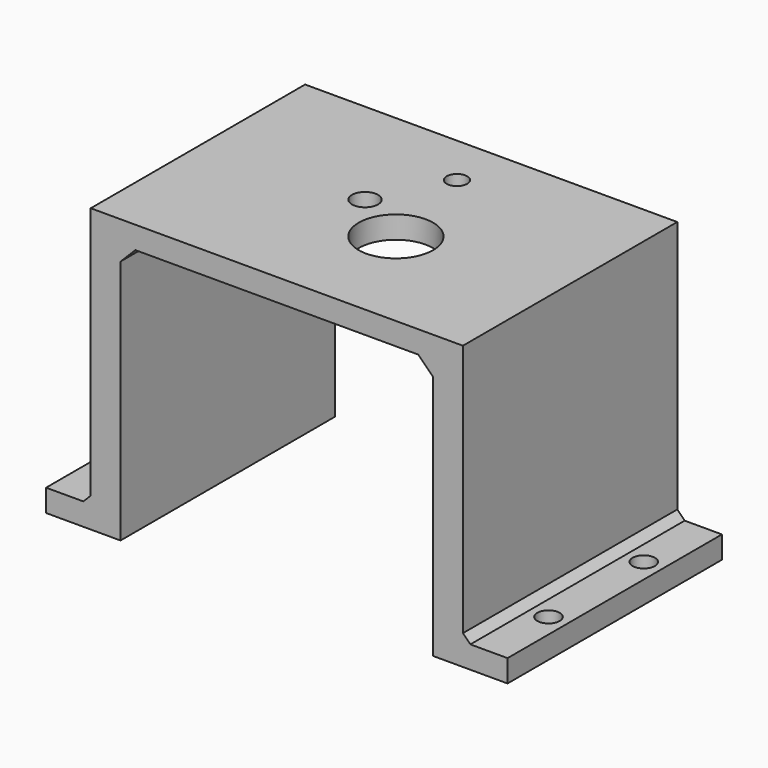
from build123d import *

# Parameters (mm, degrees)
CYLINDER049_R             = 1.38
CYLINDER049_DEPTH         = 40
CYLINDER030_R             = 1.75
CYLINDER030_DEPTH         = 10
CYLINDER029_R             = 5
CYLINDER029_DEPTH         = 10
CYLINDER024_R             = 8.5
CYLINDER024_DEPTH         = 2
BOX014_W                  = 0.5
BOX014_H                  = 1
BOX014_DEPTH              = 5
ARRAY002_COUNT            = 12
BOX015_W                  = 0.5
BOX015_H                  = 1
BOX015_DEPTH              = 5
CYLINDER026_R             = 4.5
CYLINDER026_DEPTH         = 8
CYLINDER028_R             = 1.5
CYLINDER028_DEPTH         = 4
BOX016_W                  = 1
BOX016_H                  = 10
BOX016_DEPTH              = 30
CYLINDER027_R             = 3
CYLINDER027_DEPTH         = 30
CYLINDER025_R             = 13
CYLINDER025_DEPTH         = 10
FUSION006_ROLL_ANGLE      = 180
FUSION006_PLACEMENT_ANGLE = 150
CYLINDER023_R             = 1.5
CYLINDER023_DEPTH         = 5
CYLINDER022_R             = 1.5
CYLINDER022_DEPTH         = 5
CYLINDER021_R             = 1.5
CYLINDER021_DEPTH         = 5
CYLINDER020_R             = 1.5
CYLINDER020_DEPTH         = 5
BOX010_W                  = 4
BOX010_H                  = 36
BOX010_DEPTH              = 38
BOX011_W                  = 4
BOX011_H                  = 36
BOX011_DEPTH              = 38
BOX012_W                  = 10
BOX012_H                  = 36
BOX012_DEPTH              = 3
BOX013_W                  = 10
BOX013_H                  = 36
BOX013_DEPTH              = 3
BOX009_W                  = 50
BOX009_H                  = 36
BOX009_DEPTH              = 3
CHAMFER_SIZE              = 2
CHAMFER001_SIZE           = 1


with BuildPart() as cylinder049:
    # Cylinder049 → Cylinder049 (new body)
    with BuildSketch(Plane(origin=(38, 57, 59), x_dir=(1, 0, 0), z_dir=(0, 0, 1))):
        Circle(CYLINDER049_R)
    extrude(amount=CYLINDER049_DEPTH)


with BuildPart() as cylinder030:
    # Cylinder030 → Cylinder030 (new body)
    with BuildSketch(Plane(origin=(33.25, 47.5, 71), x_dir=(1, 0, 0), z_dir=(0, 0, 1))):
        Circle(CYLINDER030_R)
    extrude(amount=CYLINDER030_DEPTH)


with BuildPart() as cylinder029:
    # Cylinder029 → Cylinder029 (new body)
    with BuildSketch(Plane(origin=(41, 43, 71), x_dir=(1, 0, 0), z_dir=(0, 0, 1))):
        Circle(CYLINDER029_R)
    extrude(amount=CYLINDER029_DEPTH)


with BuildPart() as cylinder024:
    # Cylinder024 → Cylinder024 (new body)
    with BuildSketch(Plane.XY.offset(10)):
        Circle(CYLINDER024_R)
    extrude(amount=CYLINDER024_DEPTH)


with BuildPart() as pin_array002:
    # Box014 → Box014 (new body)
    with BuildSketch(Plane(origin=(11, -0.5, -5), x_dir=(1, 0, 0), z_dir=(0, 0, 1))):
        with Locations((0.25, 0.5)):
            Rectangle(BOX014_W, BOX014_H)
    extrude(amount=BOX014_DEPTH)

    # Array002: Pin array002 ×12 about axis
    array002_axis = Axis((0, 0, 0), (0, 0, 1))


with BuildPart() as pin_array002_1:
    add(pin_array002.part)
    for i in range(1, ARRAY002_COUNT):
        add(pin_array002.part.rotate(array002_axis, i * 360 / ARRAY002_COUNT))


with BuildPart() as pin_central002:
    # Box015 → Box015 (new body)
    with BuildSketch(Plane(origin=(3, -0.5, -5), x_dir=(1, 0, 0), z_dir=(0, 0, 1))):
        with Locations((0.25, 0.5)):
            Rectangle(BOX015_W, BOX015_H)
    extrude(amount=BOX015_DEPTH)


with BuildPart() as cylinder026:
    # Cylinder026 → Cylinder026 (new body)
    with BuildSketch(Plane.XY.offset(12)):
        Circle(CYLINDER026_R)
    extrude(amount=CYLINDER026_DEPTH)


with BuildPart() as cylinder028:
    # Cylinder028 → Cylinder028 (new body)
    with BuildSketch(Plane(origin=(9, 0, 10), x_dir=(1, 0, 0), z_dir=(0, 0, 1))):
        Circle(CYLINDER028_R)
    extrude(amount=CYLINDER028_DEPTH)


with BuildPart() as obj1:
    # Box016 → Box016 (new body)
    with BuildSketch(Plane(origin=(2, -5, 20), x_dir=(1, 0, 0), z_dir=(0, 0, 1))):
        with Locations((0.5, 5)):
            Rectangle(BOX016_W, BOX016_H)
    extrude(amount=BOX016_DEPTH)


with BuildPart() as obj2:
    # Cylinder027 → Cylinder027 (new body)
    with BuildSketch(Plane.XY.offset(20)):
        Circle(CYLINDER027_R)
    extrude(amount=CYLINDER027_DEPTH)

    # Cut010: cut obj1
    add(obj1.part, mode=Mode.SUBTRACT)


with BuildPart() as selector_taladro:
    # Cylinder025 → Cylinder025 (new body)
    with BuildSketch(Plane.XY):
        Circle(CYLINDER025_R)
    extrude(amount=CYLINDER025_DEPTH)

    # Fusion006: union Cylinder024, Pin array002, Pin central002, Cylinder026, Cylinder028, obj2
    add(cylinder024.part)
    add(pin_array002_1.part)
    add(pin_central002.part)
    add(cylinder026.part)
    add(cylinder028.part)
    add(obj2.part)


with BuildPart() as selector_taladro_1:
    # Fusion006 roll: moved
    add(selector_taladro.part.rotate(Axis((0, 0, 0), (1, 0, 0)), FUSION006_ROLL_ANGLE))


with BuildPart() as selector_taladro_2:
    # Fusion006 placement: moved
    add(selector_taladro_1.part.moved(Location((40.992958, 43.010908, 90))).rotate(Axis((40.992958, 43.010908, 90), (0, 0, 1)), FUSION006_PLACEMENT_ANGLE))


with BuildPart() as cylinder023:
    # Cylinder023 → Cylinder023 (new body)
    with BuildSketch(Plane(origin=(65.5, 54, 39), x_dir=(1, 0, 0), z_dir=(0, 0, 1))):
        Circle(CYLINDER023_R)
    extrude(amount=CYLINDER023_DEPTH)


with BuildPart() as cylinder022:
    # Cylinder022 → Cylinder022 (new body)
    with BuildSketch(Plane(origin=(65.5, 38, 39), x_dir=(1, 0, 0), z_dir=(0, 0, 1))):
        Circle(CYLINDER022_R)
    extrude(amount=CYLINDER022_DEPTH)


with BuildPart() as cylinder021:
    # Cylinder021 → Cylinder021 (new body)
    with BuildSketch(Plane(origin=(8.5, 54, 39), x_dir=(1, 0, 0), z_dir=(0, 0, 1))):
        Circle(CYLINDER021_R)
    extrude(amount=CYLINDER021_DEPTH)


with BuildPart() as cylinder020:
    # Cylinder020 → Cylinder020 (new body)
    with BuildSketch(Plane(origin=(8.5, 38, 39), x_dir=(1, 0, 0), z_dir=(0, 0, 1))):
        Circle(CYLINDER020_R)
    extrude(amount=CYLINDER020_DEPTH)


with BuildPart() as box010:
    # Box010 → Box010 (new body)
    with BuildSketch(Plane(origin=(12, 28, 40), x_dir=(1, 0, 0), z_dir=(0, 0, 1))):
        with Locations((2, 18)):
            Rectangle(BOX010_W, BOX010_H)
    extrude(amount=BOX010_DEPTH)


with BuildPart() as box011:
    # Box011 → Box011 (new body)
    with BuildSketch(Plane(origin=(58, 28, 40), x_dir=(1, 0, 0), z_dir=(0, 0, 1))):
        with Locations((2, 18)):
            Rectangle(BOX011_W, BOX011_H)
    extrude(amount=BOX011_DEPTH)


with BuildPart() as box012:
    # Box012 → Box012 (new body)
    with BuildSketch(Plane(origin=(6, 28, 40), x_dir=(1, 0, 0), z_dir=(0, 0, 1))):
        with Locations((5, 18)):
            Rectangle(BOX012_W, BOX012_H)
    extrude(amount=BOX012_DEPTH)


with BuildPart() as box013:
    # Box013 → Box013 (new body)
    with BuildSketch(Plane(origin=(58, 28, 40), x_dir=(1, 0, 0), z_dir=(0, 0, 1))):
        with Locations((5, 18)):
            Rectangle(BOX013_W, BOX013_H)
    extrude(amount=BOX013_DEPTH)


with BuildPart() as cut028:
    # Box009 → Box009 (new body)
    with BuildSketch(Plane(origin=(12, 28, 75), x_dir=(1, 0, 0), z_dir=(0, 0, 1))):
        with Locations((25, 18)):
            Rectangle(BOX009_W, BOX009_H)
    extrude(amount=BOX009_DEPTH)

    # Fusion005: union Box010, Box011, Box012, Box013
    add(box010.part)
    add(box011.part)
    add(box012.part)
    add(box013.part)

    # Chamfer
    chamfer_edges = [cut028.edges().sort_by_distance(p)[0] for p in [
        (58, 46, 75),
        (16, 46, 75),
    ]]
    chamfer(chamfer_edges, length=CHAMFER_SIZE)

    # Chamfer001
    chamfer001_edges = [cut028.edges().sort_by_distance(p)[0] for p in [
        (62, 46, 43),
        (12, 46, 43),
    ]]
    chamfer(chamfer001_edges, length=CHAMFER001_SIZE)

    # Cut006: cut Cylinder020
    add(cylinder020.part, mode=Mode.SUBTRACT)

    # Cut007: cut Cylinder021
    add(cylinder021.part, mode=Mode.SUBTRACT)

    # Cut008: cut Cylinder022
    add(cylinder022.part, mode=Mode.SUBTRACT)

    # Cut009: cut Cylinder023
    add(cylinder023.part, mode=Mode.SUBTRACT)

    # Cut011: cut Selector taladro
    add(selector_taladro_2.part, mode=Mode.SUBTRACT)

    # Cut012: cut Cylinder029
    add(cylinder029.part, mode=Mode.SUBTRACT)

    # Cut013: cut Cylinder030
    add(cylinder030.part, mode=Mode.SUBTRACT)

    # Cut028: cut Cylinder049
    add(cylinder049.part, mode=Mode.SUBTRACT)


solid = cut028.part
